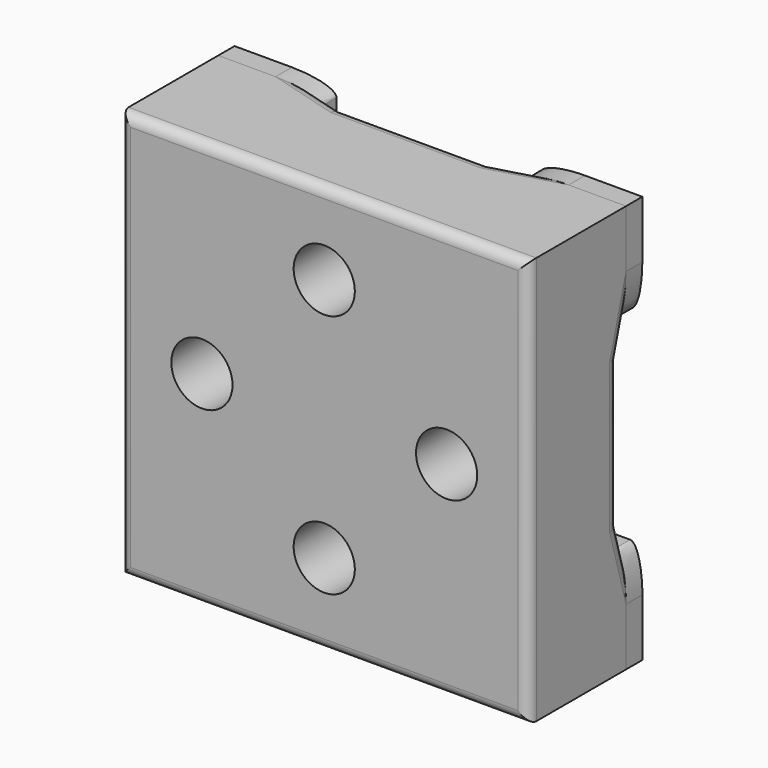
from build123d import *

# Parameters (mm, degrees)
F0_W      = 100
F0_H      = 100
F0_R      = 5
F0_R_2    = 7.5
F1_DEPTH  = 30
F3_DEPTH  = 100.001
F5_DEPTH  = 100.001
F6_R      = 2.5
F7_R      = 3
F8_R      = 5
F9_DEPTH  = 5
F10_R     = 5
F11_DEPTH = 35.0010001
F12_DEPTH = 5


with BuildPart() as f1:
    # F0 (on Front) → F1 (new body)
    with BuildSketch(Plane.XZ):
        with Locations((50, -50)):
            Rectangle(F0_W, F0_H)
        with Locations((15, -85)):
            Circle(F0_R, mode=Mode.SUBTRACT)
        with Locations((50, -80)):
            Circle(F0_R_2, mode=Mode.SUBTRACT)
        with Locations((85, -85)):
            Circle(F0_R, mode=Mode.SUBTRACT)
        with Locations((85, -70)):
            Circle(F0_R, mode=Mode.SUBTRACT)
        with Locations((20, -50)):
            Circle(F0_R_2, mode=Mode.SUBTRACT)
        with Locations((15, -30)):
            Circle(F0_R, mode=Mode.SUBTRACT)
        with Locations((15, -15)):
            Circle(F0_R, mode=Mode.SUBTRACT)
        with Locations((80, -50)):
            Circle(F0_R_2, mode=Mode.SUBTRACT)
        with Locations((50, -20)):
            Circle(F0_R_2, mode=Mode.SUBTRACT)
        with Locations((85, -15)):
            Circle(F0_R, mode=Mode.SUBTRACT)
    extrude(amount=F1_DEPTH)

    # F2 (on face) → F3 (cut, through all)
    with BuildSketch(Plane(origin=(0, 0, -100), x_dir=(1, 0, 0), z_dir=(0, 0, -1))):
        Polygon((32, 2), (25, 0), (75, 0), (68, 2), align=None)
    extrude(amount=-F3_DEPTH, mode=Mode.SUBTRACT)

    # F4 (on face) → F5 (cut, through all)
    with BuildSketch(Plane(origin=(0, 0, 0), x_dir=(0, -1, 0), z_dir=(-1, 0, 0))):
        Polygon((2, -32), (0, -25), (0, -75), (2, -68), align=None)
    extrude(amount=-F5_DEPTH, mode=Mode.SUBTRACT)

    # F6
    f6_edges = [f1.edges().sort_by_distance(p)[0] for p in [
        (100, -30, -50),
        (50, -30, 0),
        (0, -30, -50),
        (50, -30, -100),
    ]]
    fillet(f6_edges, radius=F6_R)

    # F7
    f7_edges = [f1.edges().sort_by_distance(p)[0] for p in [
        (100, -2, -50),
        (100, -1, -28.5),
        (100, -1, -71.5),
        (0, -2, -50),
        (0, -1, -71.5),
        (0, -1, -28.5),
        (50, -2, -100),
        (71.5, -1, -100),
        (28.5, -1, -100),
        (50, -2, 0),
        (71.5, -1, 0),
        (28.5, -1, 0),
    ]]
    fillet(f7_edges, radius=F7_R)

    # F10 (on face) → F11 (cut, through all)
    with BuildSketch(Plane.XZ.offset(30)):
        with Locations((30, -15)):
            Circle(F10_R)
        with Locations((70, -85)):
            Circle(F10_R)
    extrude(amount=-F11_DEPTH, mode=Mode.SUBTRACT)

    # F10 (on face) → F12 (join)
    with BuildSketch(Plane.XZ.offset(30)):
        with Locations((85, -85)):
            Circle(F10_R)
        with Locations((15, -85)):
            Circle(F10_R)
        with Locations((15, -15)):
            Circle(F10_R)
        with Locations((85, -15)):
            Circle(F10_R)
        with Locations((30, -15)):
            Circle(F10_R)
        with Locations((70, -85)):
            Circle(F10_R)
        with Locations((85, -70)):
            Circle(F10_R)
        with Locations((15, -30)):
            Circle(F10_R)
    extrude(amount=-F12_DEPTH)


with BuildPart() as f9:
    # F8 (on face) → F9 (new body)
    with BuildSketch(Plane(origin=(0, 0, 0), x_dir=(-1, 0, 0), z_dir=(0, 1, 0))):
        with BuildLine():
            Line((-85.9201648339, 0), (-100, 0))
            Line((-100, 0), (-100, -14.0798351661))
            add(Edge.make_bspline(
                [(-100, -14.0798351661), (-100, -25), (-97, -25)],
                knots=[1.5707963268, 1.5707963268, 1.5707963268, 3.1415926536, 3.1415926536, 3.1415926536], degree=2, weights=[1, 0.7071067812, 1]))
            Line((-97, -25), (-75, -25))
            Line((-75, -25), (-75, -3))
            add(Edge.make_bspline(
                [(-75, -3), (-75, 0), (-85.9201648339, 0)],
                knots=[0, 0, 0, 1.5707963268, 1.5707963268, 1.5707963268], degree=2, weights=[1, 0.7071067812, 1]))
        make_face()
        with Locations((-85, -15)):
            Circle(F8_R, mode=Mode.SUBTRACT)
    extrude(amount=F9_DEPTH)


with BuildPart() as f9b:
    # F8 (on face) → F9, piece 2 (new body)
    with BuildSketch(Plane(origin=(0, 0, 0), x_dir=(-1, 0, 0), z_dir=(0, 1, 0))):
        with BuildLine():
            Line((-25, -25), (-15, -25))
            Line((-15, -25), (-3, -25))
            add(Edge.make_bspline(
                [(-3, -25), (0, -25), (0, -14.0798351661)],
                knots=[3.1415926536, 3.1415926536, 3.1415926536, 4.7123889804, 4.7123889804, 4.7123889804], degree=2, weights=[1, 0.7071067812, 1]))
            Line((0, -14.0798351661), (0, 0))
            Line((0, 0), (-14.0798351661, 0))
            add(Edge.make_bspline(
                [(-14.0798351661, 0), (-25, 0), (-25, -3)],
                knots=[1.5707963268, 1.5707963268, 1.5707963268, 3.1415926536, 3.1415926536, 3.1415926536], degree=2, weights=[1, 0.7071067812, 1]))
            Line((-25, -3), (-25, -25))
        make_face()
        with Locations((-15, -15)):
            Circle(F8_R, mode=Mode.SUBTRACT)
    extrude(amount=F9_DEPTH)


with BuildPart() as f9c:
    # F8 (on face) → F9, piece 3 (new body)
    with BuildSketch(Plane(origin=(0, 0, 0), x_dir=(-1, 0, 0), z_dir=(0, 1, 0))):
        with BuildLine():
            Line((-14.0798351661, -100), (0, -100))
            Line((0, -100), (0, -85.9201648339))
            add(Edge.make_bspline(
                [(0, -85.9201648339), (0, -75), (-3, -75)],
                knots=[4.7123889804, 4.7123889804, 4.7123889804, 6.2831853072, 6.2831853072, 6.2831853072], degree=2, weights=[1, 0.7071067812, 1]))
            Line((-3, -75), (-25, -75))
            Line((-25, -75), (-25, -97))
            add(Edge.make_bspline(
                [(-25, -97), (-25, -100), (-14.0798351661, -100)],
                knots=[3.1415926536, 3.1415926536, 3.1415926536, 4.7123889804, 4.7123889804, 4.7123889804], degree=2, weights=[1, 0.7071067812, 1]))
        make_face()
        with Locations((-15, -85)):
            Circle(F8_R, mode=Mode.SUBTRACT)
    extrude(amount=F9_DEPTH)


with BuildPart() as f9d:
    # F8 (on face) → F9, piece 4 (new body)
    with BuildSketch(Plane(origin=(0, 0, 0), x_dir=(-1, 0, 0), z_dir=(0, 1, 0))):
        with BuildLine():
            Line((-75, -75), (-85, -75))
            Line((-85, -75), (-97, -75))
            add(Edge.make_bspline(
                [(-97, -75), (-100, -75), (-100, -85.9201648339)],
                knots=[0, 0, 0, 1.5707963268, 1.5707963268, 1.5707963268], degree=2, weights=[1, 0.7071067812, 1]))
            Line((-100, -85.9201648339), (-100, -100))
            Line((-100, -100), (-85.9201648339, -100))
            add(Edge.make_bspline(
                [(-85.9201648339, -100), (-75, -100), (-75, -97)],
                knots=[4.7123889804, 4.7123889804, 4.7123889804, 6.2831853072, 6.2831853072, 6.2831853072], degree=2, weights=[1, 0.7071067812, 1]))
            Line((-75, -97), (-75, -75))
        make_face()
        with Locations((-85, -85)):
            Circle(F8_R, mode=Mode.SUBTRACT)
    extrude(amount=F9_DEPTH)


solid = Compound([f1.part, f9.part, f9b.part, f9c.part, f9d.part])
